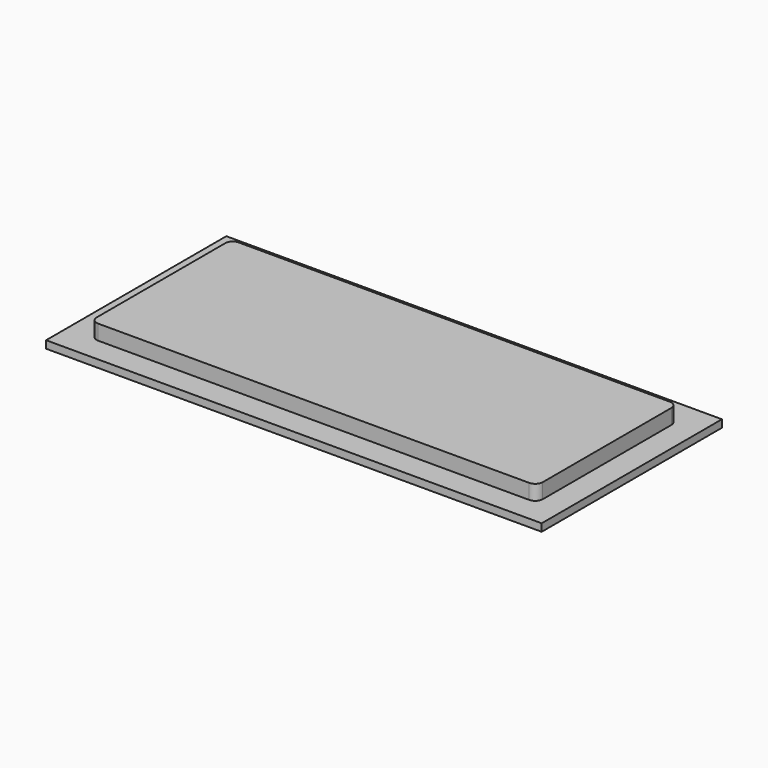
from build123d import *

# Parameters (mm, degrees)
SKETCH_W     = 33
SKETCH_H     = 15
PAD_DEPTH    = 0.5
SKETCH001_W  = 29.7
SKETCH001_H  = 11.7
PAD001_DEPTH = 1
FILLET_R     = 0.5


with BuildPart() as part:
    # Sketch → Pad (new body)
    with BuildSketch(Plane.XY):
        Rectangle(SKETCH_W, SKETCH_H)
    extrude(amount=PAD_DEPTH)

    # Sketch001 (on Face6 of Pad) → Pad001 (join)
    with BuildSketch(Plane.XY.offset(0.5)):
        Rectangle(SKETCH001_W, SKETCH001_H)
    extrude(amount=PAD001_DEPTH)

    # Fillet
    fillet_edges = [part.edges().sort_by_distance(p)[0] for p in [
        (-14.85, -5.85, 1),
        (14.85, -5.85, 1),
        (14.85, 5.85, 1),
        (-14.85, 5.85, 1),
    ]]
    fillet(fillet_edges, radius=FILLET_R)


solid = part.part
